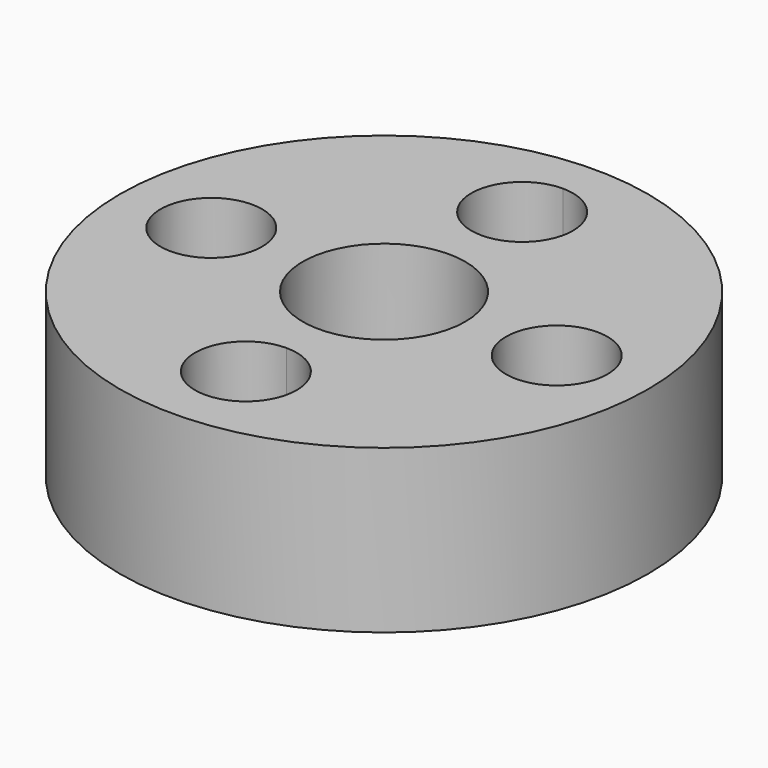
from build123d import *

# Parameters (mm, degrees)
F0_R     = 6.5
F0_R_2   = 2
F1_DEPTH = 4
F2_DEPTH = 2


with BuildPart() as f1:
    # F0 (on Top) → F1 (new body)
    with BuildSketch(Plane.XY):
        with Locations((10, -10)):
            Circle(F0_R)
        with BuildLine():
            ThreePointArc((10, -4.5), (13.8890872965, -6.1109127035), (15.5, -10))
            ThreePointArc((15.5, -10), (13.8890872965, -13.8890872965), (10, -15.5))
            ThreePointArc((10, -15.5), (6.1109127035, -13.8890872965), (4.5, -10))
            ThreePointArc((4.5, -10), (6.1109127035, -6.1109127035), (10, -4.5))
        make_face(mode=Mode.SUBTRACT)
        with BuildLine():
            ThreePointArc((10.0000000233, -13), (12.1213203518, -12.1213203353), (13, -10))
            ThreePointArc((13, -10), (12.1213203436, -7.8786796564), (10, -7))
            ThreePointArc((10, -7), (7.8786796564, -7.8786796564), (7, -10))
            ThreePointArc((7, -10), (7.8786796647, -12.1213203518), (10.0000000233, -13))
        make_face()
        with Locations((10, -10)):
            Circle(F0_R_2, mode=Mode.SUBTRACT)
        with BuildLine():
            ThreePointArc((10, -7), (8.75, -5.75), (10, -4.5))
            ThreePointArc((10, -4.5), (6.1109127035, -6.1109127035), (4.5, -10))
            ThreePointArc((4.5, -10), (5.75, -8.75), (7, -10))
            ThreePointArc((7, -10), (7.8786796564, -7.8786796564), (10, -7))
        make_face()
        with BuildLine():
            ThreePointArc((10, -15.5), (13.8890872965, -13.8890872965), (15.5, -10))
            ThreePointArc((15.5, -10), (14.25, -11.25), (13, -10))
            ThreePointArc((13, -10), (12.1213203518, -12.1213203353), (10.0000000233, -13))
            ThreePointArc((10.0000000233, -13), (10.8838834847, -13.3661165318), (11.25, -14.25))
            ThreePointArc((11.25, -14.25), (10.8838834765, -15.1338834765), (10, -15.5))
        make_face()
        with BuildLine():
            ThreePointArc((4.5, -10), (6.1109127035, -13.8890872965), (10, -15.5))
            ThreePointArc((10, -15.5), (8.75, -14.2499999883), (10.0000000233, -13))
            ThreePointArc((10.0000000233, -13), (7.8786796647, -12.1213203518), (7, -10))
            ThreePointArc((7, -10), (5.75, -11.25), (4.5, -10))
        make_face()
        with BuildLine():
            ThreePointArc((13, -10), (14.25, -8.75), (15.5, -10))
            ThreePointArc((15.5, -10), (13.8890872965, -6.1109127035), (10, -4.5))
            ThreePointArc((10, -4.5), (10.8838834765, -4.8661165235), (11.25, -5.75))
            ThreePointArc((11.25, -5.75), (10.8838834765, -6.6338834765), (10, -7))
            ThreePointArc((10, -7), (12.1213203436, -7.8786796564), (13, -10))
        make_face()
    extrude(amount=F1_DEPTH)

    # F0 (on Top) → F2 (cut)
    with BuildSketch(Plane.XY):
        with BuildLine():
            ThreePointArc((4.5, -10), (6.1109127035, -13.8890872965), (10, -15.5))
            ThreePointArc((10, -15.5), (8.75, -14.2499999883), (10.0000000233, -13))
            ThreePointArc((10.0000000233, -13), (7.8786796647, -12.1213203518), (7, -10))
            ThreePointArc((7, -10), (5.75, -11.25), (4.5, -10))
        make_face()
        with BuildLine():
            ThreePointArc((13, -10), (14.25, -8.75), (15.5, -10))
            ThreePointArc((15.5, -10), (13.8890872965, -6.1109127035), (10, -4.5))
            ThreePointArc((10, -4.5), (10.8838834765, -4.8661165235), (11.25, -5.75))
            ThreePointArc((11.25, -5.75), (10.8838834765, -6.6338834765), (10, -7))
            ThreePointArc((10, -7), (12.1213203436, -7.8786796564), (13, -10))
        make_face()
    extrude(amount=F2_DEPTH, mode=Mode.SUBTRACT)


solid = f1.part
